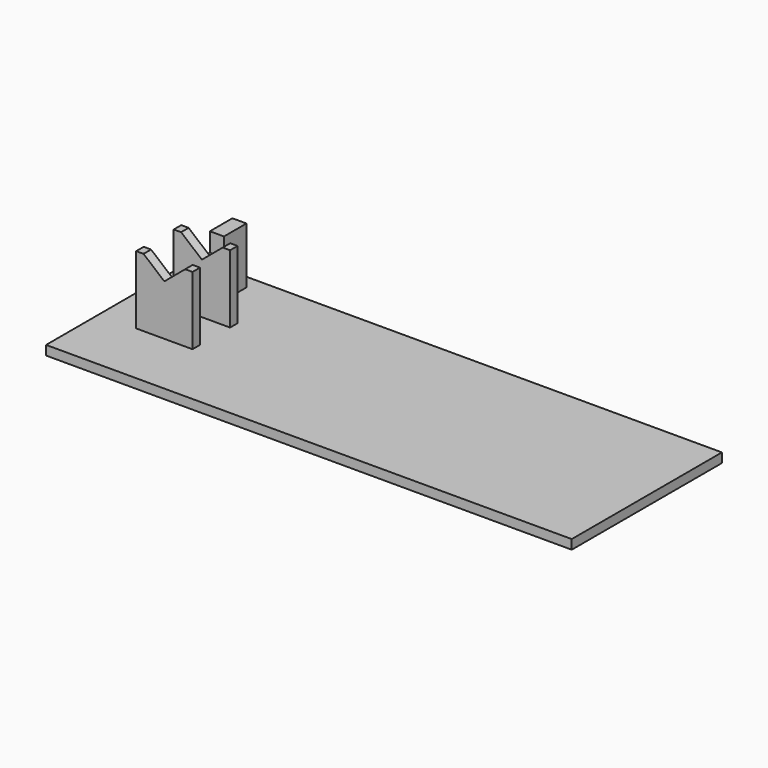
from build123d import *

# Parameters (mm, degrees)
F0_W       = 355.6
F0_H       = 127
F1_DEPTH   = 6.35
F2_W       = 38.1
F2_H       = 6.35
F3_DEPTH   = 50.8
F3_FACE1_W = 38.1
F3_FACE1_H = 50.8
F5_DEPTH   = 50.8
F6_W       = 9.525
F6_H       = 25.4
F7_DEPTH   = 25.4
F8_W       = 9.525
F8_H       = 19.05
F9_DEPTH   = 12.7


with BuildPart() as f1:
    # F0 (on Top) → F1 (new body)
    with BuildSketch(Plane.XY):
        with Locations((177.8, 68.0911967754)):
            Rectangle(F0_W, F0_H)
    extrude(amount=F1_DEPTH)

    # F2 (on face) → F3 (join)
    with BuildSketch(Plane.XY.offset(6.35)):
        with Locations((44.45, 52.2161967754)):
            Rectangle(F2_W, F2_H)
        with Locations((44.45, 83.9661967754)):
            Rectangle(F2_W, F2_H)
    extrude(amount=F3_DEPTH)

    # F4 (on face) + F3_face1 (on face) → F5 (cut)
    with BuildSketch(Plane.XZ.offset(-49.0411967754)):
        Polygon((63.5, 57.15), (25.4, 57.15), (25.4, 52.3875), (30.3680338836, 52.3875), (44.45, 40.5713274255), (58.5319661164, 52.3875), (63.5, 52.3875), align=None)
    with BuildSketch(Plane(origin=(44.45, 87.1411967754, 31.75), x_dir=(-1, 0, 0), z_dir=(0, 1, 0))):
        Rectangle(F3_FACE1_W, F3_FACE1_H)
    extrude(amount=-F5_DEPTH, dir=(0, -1, 0), mode=Mode.SUBTRACT)

    # F6 (on face) → F7 (join)
    with BuildSketch(Plane(origin=(0, 87.1411967754, 0), x_dir=(-1, 0, 0), z_dir=(0, 1, 0))):
        with Locations((-44.45, 25.4)):
            Rectangle(F6_W, F6_H)
    extrude(amount=F7_DEPTH)

    # F8 (on face) → F9 (join)
    with BuildSketch(Plane.XY.offset(38.1)):
        with Locations((44.45, 103.0161967754)):
            Rectangle(F8_W, F8_H)
    extrude(amount=F9_DEPTH)


solid = f1.part
